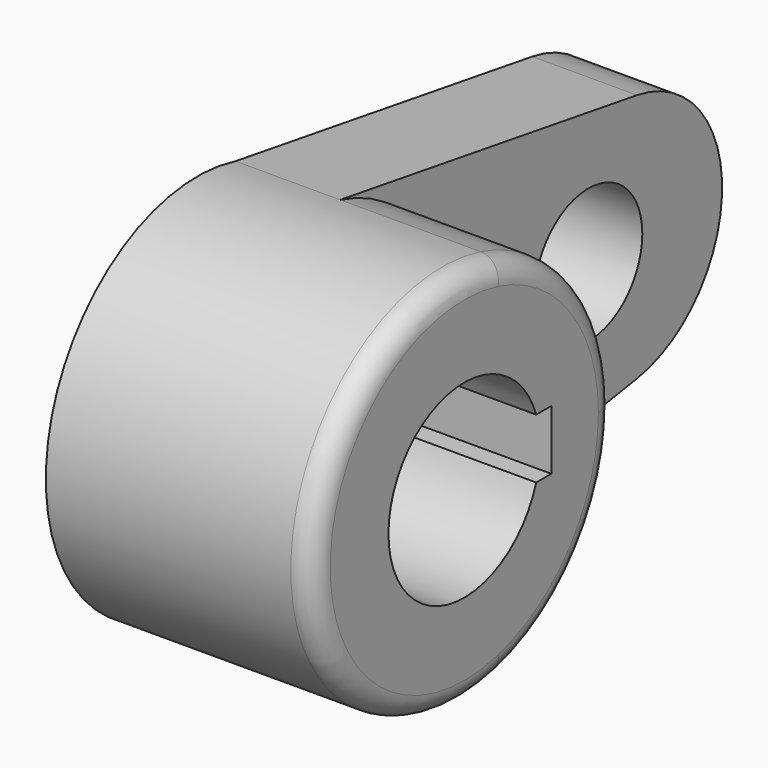
from build123d import *

# Parameters (mm, degrees)
F1_DEPTH = 40.2336
F0_R     = 10.16
F2_DEPTH = 15.7734
F3_R     = 3.302


with BuildPart() as f1:
    # F0 (on Right) → F1 (new body)
    with BuildSketch(Plane.YZ):
        with BuildLine():
            ThreePointArc((7.18307, -27.657443), (22.602952, -17.482483), (28.575, 0))
            ThreePointArc((28.575, 0), (22.602952, 17.482483), (7.18307, 27.657443))
            ThreePointArc((7.18307, 27.657443), (-28.575, 0), (7.18307, -27.657443))
        make_face()
        with BuildLine():
            ThreePointArc((13.559429, -4.502727), (-14.2875, 0), (13.559429, 4.502727))
            Line((13.559429, 4.502727), (16.4084, 4.502727))
            Line((16.4084, 4.502727), (16.4084, -4.502727))
            Line((16.4084, -4.502727), (13.559429, -4.502727))
        make_face(mode=Mode.SUBTRACT)
    extrude(amount=F1_DEPTH)

    # F0 (on Right) → F2 (join)
    with BuildSketch(Plane.YZ):
        with BuildLine():
            ThreePointArc((7.18307, -27.657443), (22.602952, -17.482483), (28.575, 0))
            ThreePointArc((28.575, 0), (22.602952, 17.482483), (7.18307, 27.657443))
            ThreePointArc((7.18307, 27.657443), (-28.575, 0), (7.18307, -27.657443))
        make_face()
        with BuildLine():
            ThreePointArc((13.559429, -4.502727), (-14.2875, 0), (13.559429, 4.502727))
            Line((13.559429, 4.502727), (16.4084, 4.502727))
            Line((16.4084, 4.502727), (16.4084, -4.502727))
            Line((16.4084, -4.502727), (13.559429, -4.502727))
        make_face(mode=Mode.SUBTRACT)
        with BuildLine():
            ThreePointArc((7.18307, 27.657443), (22.602952, 17.482483), (28.575, 0))
            ThreePointArc((28.575, 0), (22.602952, -17.482483), (7.18307, -27.657443))
            Line((7.18307, -27.657443), (63.100665, -18.816257))
            ThreePointArc((63.100665, -18.816257), (79.175608, 0), (63.100665, 18.816257))
            Line((63.100665, 18.816257), (7.18307, 27.657443))
        make_face()
        with Locations((53.975, 0)):
            Circle(F0_R, mode=Mode.SUBTRACT)
    extrude(amount=F2_DEPTH)

    # F3
    f3_edges = [f1.edges().sort_by_distance(p)[0] for p in [
        (40.2336, -7.18307, 27.657443),
    ]]
    fillet(f3_edges, radius=F3_R)


solid = f1.part
